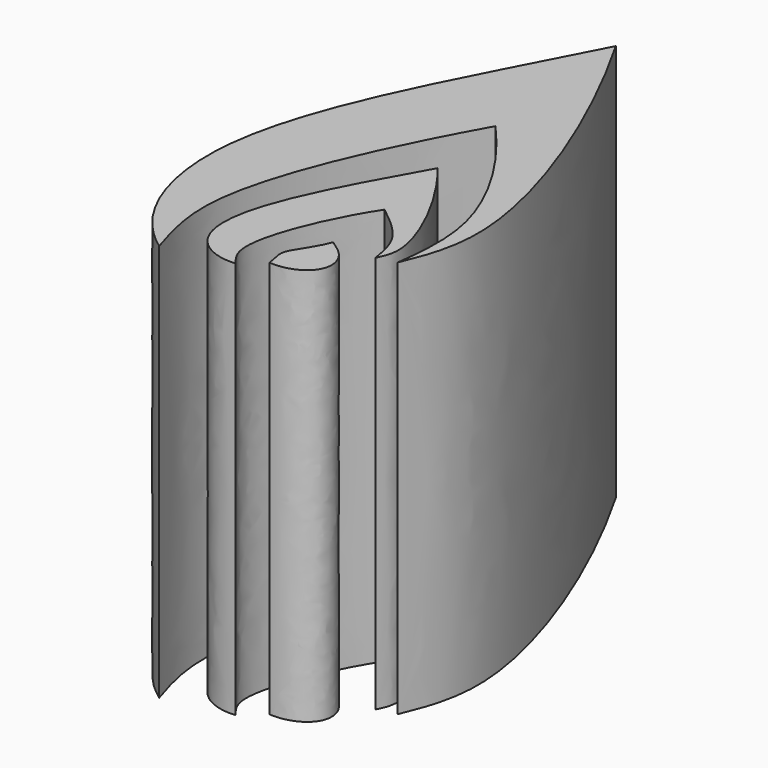
from build123d import *

# Parameters (mm, degrees)
F1_DEPTH = 25


with BuildPart() as f1:
    # F0 (on Top) → F1 (new body)
    with BuildSketch(Plane.XY):
        with BuildLine():
            add(Edge.make_bspline(
                [(-62.5923201442, 26.0836202651), (-61.9351901808, 27.6738730732), (-60.1939110476, 32.2015343839), (-64.5900815725, 43.7468290329), (-68.6000138521, 50.7481247187)],
                knots=[0, 0, 0, 0, 0.3450779004, 1, 1, 1, 1], degree=3))
            add(Edge.make_bspline(
                [(-68.6000138521, 50.7481247187), (-72.2092464566, 43.649148196), (-79.2907851994, 31.8031692569), (-75.9211406112, 22.3545692861), (-72.8206783533, 20.1483108103)],
                knots=[0, 0, 0, 0, 0.5806848058, 1, 1, 1, 1], degree=3))
            add(Edge.make_bspline(
                [(-72.8206783533, 20.1483108103), (-73.3673278597, 21.8629082153), (-74.7220440755, 26.3600017196), (-70.8417072892, 35.1508520544), (-67.8950101137, 40.4130443931)],
                knots=[0, 0, 0, 0, 0.3784090051, 1, 1, 1, 1], degree=3))
            add(Edge.make_bspline(
                [(-67.8950101137, 40.4130443931), (-65.3715357184, 37.5928916037), (-61.9560712548, 32.0747531141), (-62.366534646, 27.8978623447), (-62.5923201442, 26.0836202651)],
                knots=[0, 0, 0, 0, 0.5729292116, 1, 1, 1, 1], degree=3))
        make_face()
    extrude(amount=F1_DEPTH)


with BuildPart() as f1b:
    # F0 (on Top) → F1, piece 2 (new body)
    with BuildSketch(Plane.XY):
        with BuildLine():
            add(Edge.make_bspline(
                [(-63.7555196881, 25.8029252291), (-63.5293067352, 26.2513958143), (-62.8671172852, 27.6668608362), (-65.0851428509, 32.3803760111), (-67.3251673579, 35.1508520544)],
                knots=[0, 0, 0, 0, 0.3038872696, 1, 1, 1, 1], degree=3))
            add(Edge.make_bspline(
                [(-67.3251673579, 35.1508520544), (-69.2089361234, 31.8049107249), (-72.2356221362, 26.3714943322), (-71.9277775534, 21.8582907482), (-69.8236301541, 20.9478344768), (-68.7484294176, 21.0477747023)],
                knots=[0, 0, 0, 0, 0.4713171, 0.7534900214, 1, 1, 1, 1], degree=3))
            add(Edge.make_bspline(
                [(-68.7484294176, 21.0477747023), (-69.0955745928, 21.4823009731), (-70.119719912, 22.7706684321), (-68.319350481, 27.4538528174), (-66.6086152196, 30.0825629383)],
                knots=[0, 0, 0, 0, 0.3196111445, 1, 1, 1, 1], degree=3))
            add(Edge.make_bspline(
                [(-66.6086152196, 30.0825629383), (-65.7466496453, 29.4021985077), (-64.1486329252, 28.1408560965), (-63.8794884265, 26.5401945771), (-63.7555196881, 25.8029252291)],
                knots=[0, 0, 0, 0, 0.5393970936, 1, 1, 1, 1], degree=3))
        make_face()
    extrude(amount=F1_DEPTH)


with BuildPart() as f1c:
    # F0 (on Top) → F1, piece 3 (new body)
    with BuildSketch(Plane.XY):
        with BuildLine():
            add(Edge.make_bspline(
                [(-67.4919933081, 22.1512597054), (-67.6424205303, 22.9410082102), (-67.8774463812, 23.5652205007), (-66.8150708079, 24.7461460531), (-66.4013922215, 25.7991440594)],
                knots=[0, 0, 0, 0, 0.4297455601, 1, 1, 1, 1], degree=3))
            add(Edge.make_bspline(
                [(-66.4013922215, 25.7991440594), (-65.9411160041, 25.4893987375), (-65.0267468122, 24.8544525706), (-64.7357526007, 22.9844369821), (-66.2885680795, 22.0760460943), (-67.4919933081, 22.1512597054)],
                knots=[0, 0, 0, 0, 0.3098610978, 0.6047579994, 1, 1, 1, 1], degree=3))
        make_face()
    extrude(amount=F1_DEPTH)


solid = Compound([f1.part, f1b.part, f1c.part])
